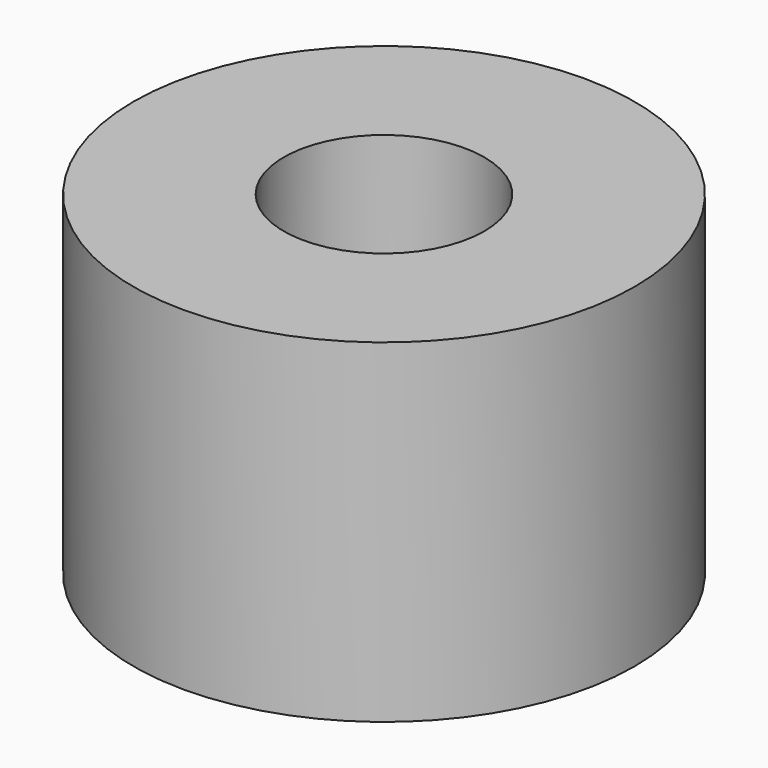
from build123d import *

# Parameters (mm, degrees)
CYLINDER023_R     = 1.2
CYLINDER023_DEPTH = 4
CYLINDER022_R     = 3
CYLINDER022_DEPTH = 4


with BuildPart() as cylinder023:
    # Cylinder023 → Cylinder023 (new body)
    with BuildSketch(Plane.XY):
        Circle(CYLINDER023_R)
    extrude(amount=CYLINDER023_DEPTH)


with BuildPart() as m2_washer:
    # Cylinder022 → Cylinder022 (new body)
    with BuildSketch(Plane.XY):
        Circle(CYLINDER022_R)
    extrude(amount=CYLINDER022_DEPTH)

    # Cut020: cut Cylinder023
    add(cylinder023.part, mode=Mode.SUBTRACT)


solid = m2_washer.part
